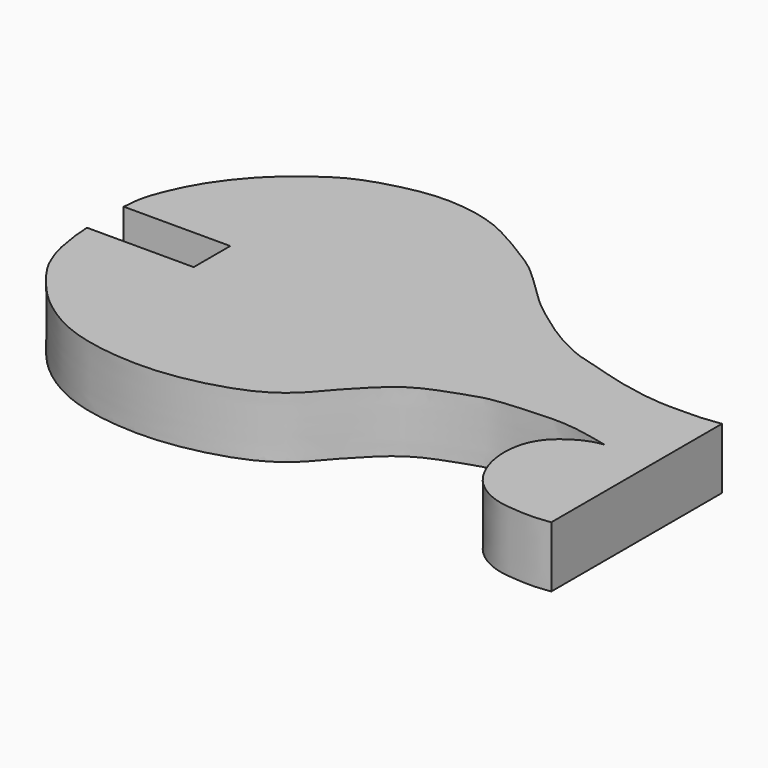
from build123d import *

# Parameters (mm, degrees)
F1_DEPTH = 2


with BuildPart() as f1:
    # F0 (on Top) → F1 (new body)
    with BuildSketch(Plane.XY):
        with BuildLine():
            Line((29.0056911222, 37.2932067769), (25.5056911222, 37.2932067769))
            add(Edge.make_bspline(
                [(25.5056911222, 37.2932067769), (25.5123893198, 37.1239796799), (25.5269370782, 36.8375945795), (25.6416827385, 36.1646228651), (25.6965987603, 35.870593877), (25.9586383582, 35.0654512779), (26.5634046516, 34.2754670616), (27.2498166005, 33.4740173498), (28.6422781275, 32.5305453944), (30.3661225189, 32.1946150546), (31.8347660495, 32.1640151789), (33.2706610039, 32.4047615549), (34.7459508282, 32.9075349293), (35.5912433708, 33.6320548308), (35.9318703652, 34.0828349686), (36.3689217963, 34.53972979), (36.852229414, 35.0494790349), (37.3439377946, 35.4660096018), (37.9454599091, 35.7958645854), (38.6558933141, 36.0362860043), (39.3967060117, 36.3258461841), (40.3153013553, 36.4001734293), (41.6189307194, 36.4971112372), (42.52205072, 36.37893891), (43.0889321098, 36.2439211109), (43.4094676731, 36.1699839479)],
                knots=[0, 0, 0, 0, 0.0314044471, 0.067823015, 0.0932533488, 0.1337564893, 0.179291164, 0.225764783, 0.2839825277, 0.3441434722, 0.398858297, 0.4536038469, 0.5104626838, 0.5574396985, 0.5911016835, 0.626787733, 0.664943676, 0.7012933061, 0.738606545, 0.7778968431, 0.8178661635, 0.8616686436, 0.9135392759, 0.9567849896, 1, 1, 1, 1], degree=3))
            add(Edge.make_bspline(
                [(45.0056911222, 31.9599839479), (44.6498870319, 31.9027877396), (44.2200911623, 31.8971006378), (43.6171287374, 31.9397267373), (43.0082244256, 32.0406101946), (42.1602186595, 32.5395680892), (41.6259363602, 33.6192455114), (41.6083624593, 34.7070531631), (41.9612334381, 35.4652618667), (42.5392842899, 35.8829550478), (42.8826759736, 36.0640771138), (43.2523710978, 36.1756302257), (43.4094676731, 36.1699839479)],
                knots=[0, 0, 0, 0, 0.105504634, 0.1926208758, 0.2830648303, 0.3958057973, 0.5220854239, 0.6420663037, 0.7468048535, 0.8423063503, 0.9162421161, 1, 1, 1, 1], degree=3))
            Line((45.0056911222, 31.9599839479), (45.0056911222, 38.9599839479))
            add(Edge.make_bspline(
                [(25.5056911222, 38.7932067769), (25.5315492059, 38.9037149986), (25.5327541276, 39.1923308861), (25.6506118006, 39.7375433246), (26.0215552759, 40.6185581861), (26.5026079416, 41.4270093383), (27.2395702998, 42.3097679885), (27.9306239878, 42.8942036511), (28.9462072453, 43.6523268701), (30.117082146, 44.0292619578), (31.5043059567, 44.335430922), (32.9548553824, 44.1561609265), (33.935516194, 43.7792408197), (35.1342587441, 43.0476239534), (35.8981926154, 42.562426552), (37.0414389181, 41.3509192279), (37.7740978211, 40.8052754631), (38.6849635289, 40.139991487), (39.7285175087, 39.6085376156), (40.5027161526, 39.4475068525), (41.3197861815, 39.1669612807), (41.9940726923, 39.0333087207), (42.5361993004, 38.9288690794), (43.0531876241, 38.8777905672), (43.5532982232, 38.8716407637), (43.9346417228, 38.882960308), (44.4483870749, 38.8770602098), (44.6252153456, 38.9307901357), (45.0056911222, 38.9599839479)],
                knots=[0, 0, 0, 0, 0.0252705223, 0.055886485, 0.0957115014, 0.1361743643, 0.1795642065, 0.218941931, 0.2644141513, 0.3099917689, 0.3589307229, 0.4078040093, 0.4503567139, 0.4978576833, 0.5381089589, 0.5900966212, 0.6300392892, 0.6732674646, 0.7175172482, 0.7541015751, 0.7919749549, 0.826069659, 0.8563445407, 0.8859488349, 0.914730391, 0.9404599448, 0.9673812596, 1, 1, 1, 1], degree=3))
            Line((25.5056911222, 38.7932067769), (29.0056911222, 38.7932067769))
            Line((29.0056911222, 38.7932067769), (29.0056911222, 37.2932067769))
        make_face()
    extrude(amount=F1_DEPTH)


solid = f1.part
